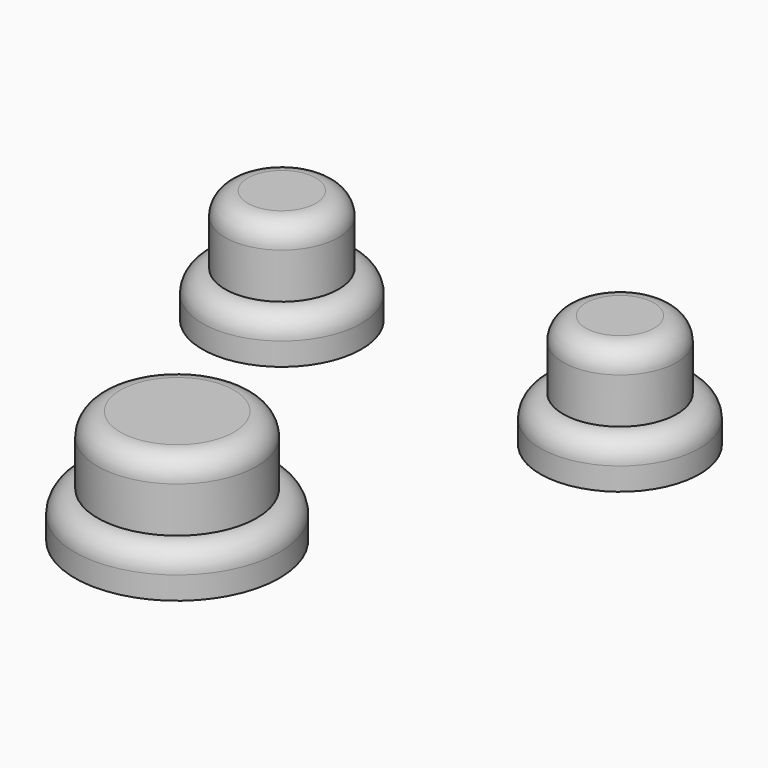
from build123d import *

# Parameters (mm, degrees)
F0_R     = 3.5
F1_DEPTH = 2
F0_R_2   = 4.5
F2_R     = 2.5
F3_DEPTH = 3
F2_R_2   = 3.5
F5_R     = 1
F5_2_R   = 1
F5_3_R   = 1
F5_4_R   = 1
F5_5_R   = 1
F5_6_R   = 1


with BuildPart() as f1:
    # F0 (on Top) → F1 (new body)
    with BuildSketch(Plane.XY):
        with Locations((-7.4327965267, 7.1505378)):
            Circle(F0_R)
    extrude(amount=F1_DEPTH)


with BuildPart() as f1b:
    # F0 (on Top) → F1, piece 2 (new body)
    with BuildSketch(Plane.XY):
        with Locations((0, -7.8952200711)):
            Circle(F0_R_2)
    extrude(amount=F1_DEPTH)

    # F5#6
    f5_6_edges = [f1b.edges().sort_by_distance(p)[0] for p in [
        (-4.5, -7.89522, 2),
    ]]
    fillet(f5_6_edges, radius=F5_6_R)


with BuildPart() as f3:
    # F2 (on face) → F3 (new body)
    with BuildSketch(Plane.XY.offset(2)):
        with Locations((-7.4327965267, 7.1505378)):
            Circle(F2_R)
    extrude(amount=F3_DEPTH)


with BuildPart() as f3b:
    # F2 (on face) → F3, piece 2 (new body)
    with BuildSketch(Plane.XY.offset(2)):
        with Locations((0, -7.8952200711)):
            Circle(F2_R_2)
    extrude(amount=F3_DEPTH)

    # F5#3
    f5_3_edges = [f3b.edges().sort_by_distance(p)[0] for p in [
        (-3.5, -7.89522, 5),
    ]]
    fillet(f5_3_edges, radius=F5_3_R)


with BuildPart() as f4_1:
    # F4: instance of F1
    add(f1.part.mirror(Plane.YZ))

    # F5#5
    f5_5_edges = [f4_1.edges().sort_by_distance(p)[0] for p in [
        (10.932797, 7.150538, 2),
    ]]
    fillet(f5_5_edges, radius=F5_5_R)


with BuildPart() as f4_2:
    # F4: instance of F3
    add(f3.part.mirror(Plane.YZ))

    # F5#2
    f5_2_edges = [f4_2.edges().sort_by_distance(p)[0] for p in [
        (9.932797, 7.150538, 5),
    ]]
    fillet(f5_2_edges, radius=F5_2_R)


with BuildPart() as f3_1:
    add(f3.part)

    # F5
    f5_edges = [f3_1.edges().sort_by_distance(p)[0] for p in [
        (-9.932797, 7.150538, 5),
    ]]
    fillet(f5_edges, radius=F5_R)


with BuildPart() as f1_1:
    add(f1.part)

    # F5#4
    f5_4_edges = [f1_1.edges().sort_by_distance(p)[0] for p in [
        (-10.932797, 7.150538, 2),
    ]]
    fillet(f5_4_edges, radius=F5_4_R)


solid = Compound([f1b.part, f3b.part, f4_1.part, f4_2.part, f3_1.part, f1_1.part])
